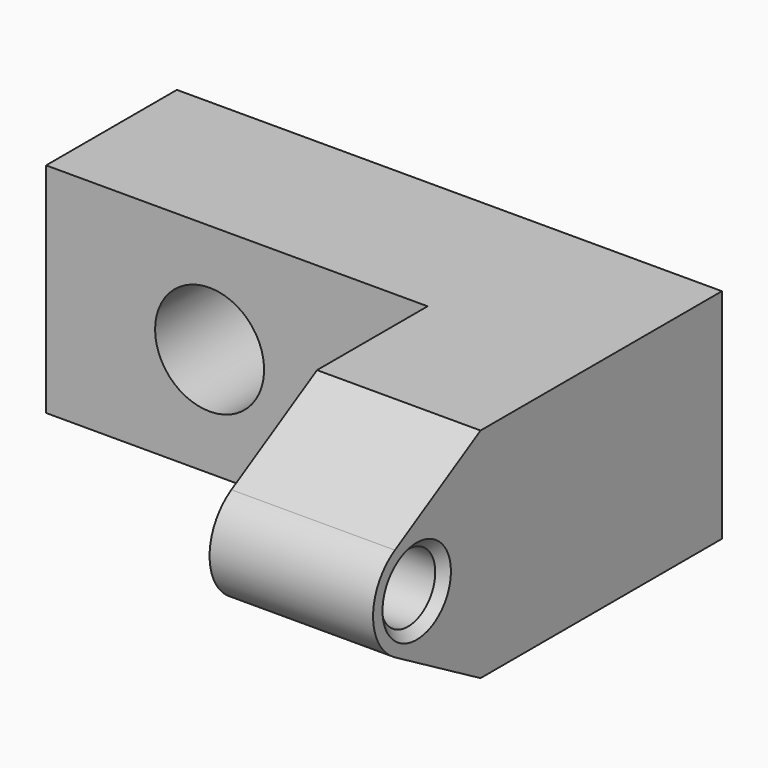
from build123d import *

# Parameters (mm, degrees)
F1_DEPTH = 25.4
F2_R     = 3.96875
F3_DEPTH = 63.501
F4_R     = 6.35
F5_DEPTH = 50.801
F6_SIZE  = 1.016


with BuildPart() as f1:
    # F0 (on Top) → F1 (new body)
    with BuildSketch(Plane.XY):
        Polygon((-44.45, 0), (0, 0), (0, -31.75), (19.05, -31.75), (19.05, 19.05), (-44.45, 19.05), align=None)
    extrude(amount=F1_DEPTH)

    # F2 (on face) → F3 (cut, through all)
    with BuildSketch(Plane.YZ.offset(19.05)):
        with BuildLine():
            ThreePointArc((-28.575, 7.200738686), (-31.75, 12.7), (-28.575, 18.199261314))
            Line((-28.575, 18.199261314), (-16.1029547439, 25.4))
            Line((-16.1029547439, 25.4), (-16.1029547439, 30.48))
            Line((-16.1029547439, 30.48), (-41.5029547439, 30.48))
            Line((-41.5029547439, 30.48), (-41.5029547439, -5.08))
            Line((-41.5029547439, -5.08), (-16.1029547439, -5.08))
            Line((-16.1029547439, -5.08), (-16.1029547439, 0))
            Line((-16.1029547439, 0), (-28.575, 7.200738686))
        make_face()
        with Locations((-25.4, 12.7)):
            Circle(F2_R)
    extrude(amount=-F3_DEPTH, mode=Mode.SUBTRACT)

    # F4 (on face) → F5 (cut, through all)
    with BuildSketch(Plane(origin=(0, 19.05, 0), x_dir=(-1, 0, 0), z_dir=(0, 1, 0))):
        with Locations((25.4, 12.7)):
            Circle(F4_R)
    extrude(amount=-F5_DEPTH, mode=Mode.SUBTRACT)

    # F6
    f6_edges = [f1.edges().sort_by_distance(p)[0] for p in [
        (19.05, -29.36875, 12.7),
        (9.525, -21.43125, 12.7),
        (0, -29.36875, 12.7),
    ]]
    chamfer(f6_edges, length=F6_SIZE)


solid = f1.part
